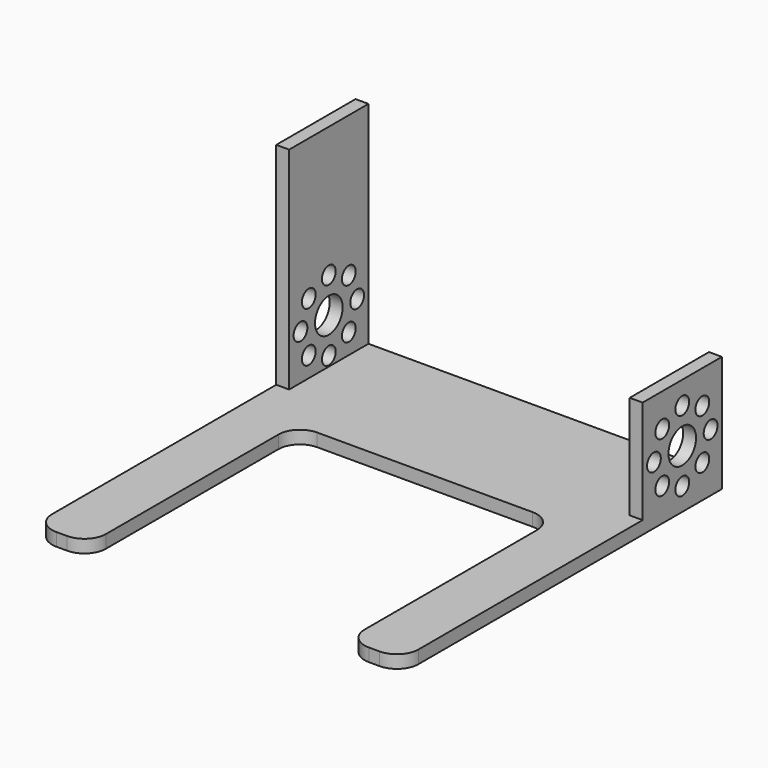
from build123d import *

# Parameters (mm, degrees)
F0_W     = 85
F0_H     = 23
F1_DEPTH = 3
F2_W     = 3
F2_H     = 23
F3_DEPTH = 24
F4_W     = 3
F4_H     = 23
F5_DEPTH = 25
F6_R     = 4
F6_R_2   = 2
F7_DEPTH = 100


with BuildPart() as f1:
    # F0 (on Top) → F1 (new body)
    with BuildSketch(Plane.XY):
        with Locations((42.5, 11.5)):
            Rectangle(F0_W, F0_H)
        with BuildLine():
            Line((85, 0), (0, 0))
            Line((0, 0), (0, -10))
            Line((0, -10), (0, -65))
            ThreePointArc((0, -65), (1.464466, -68.535534), (5, -70))
            Line((5, -70), (7.5, -70))
            ThreePointArc((7.5, -70), (11.035534, -68.535534), (12.5, -65))
            Line((12.5, -65), (12.5, -15))
            ThreePointArc((12.5, -15), (13.964466, -11.464466), (17.5, -10))
            Line((17.5, -10), (67.5, -10))
            ThreePointArc((67.5, -10), (71.035534, -11.464466), (72.5, -15))
            Line((72.5, -15), (72.5, -65))
            ThreePointArc((72.5, -65), (73.964466, -68.535534), (77.5, -70))
            Line((77.5, -70), (80, -70))
            ThreePointArc((80, -70), (83.535534, -68.535534), (85, -65))
            Line((85, -65), (85, -10))
            Line((85, -10), (85, 0))
        make_face()
    extrude(amount=F1_DEPTH)

    # F2 (on face) → F3 (join)
    with BuildSketch(Plane.XY.offset(3)):
        with Locations((1.5, 11.5)):
            Rectangle(F2_W, F2_H)
        with Locations((83.5, 11.5)):
            Rectangle(F2_W, F2_H)
    extrude(amount=F3_DEPTH)

    # F4 (on face) → F5 (join)
    with BuildSketch(Plane.XY.offset(27)):
        with Locations((1.5, 11.5)):
            Rectangle(F4_W, F4_H)
    extrude(amount=F5_DEPTH)

    # F6 (on face) → F7 (cut)
    with BuildSketch(Plane.YZ.offset(85)):
        with Locations((11.5, 13.5)):
            Circle(F6_R)
        with Locations((19.713903, 13.5)):
            Circle(F6_R_2)
        with Locations((17.308106, 19.308106)):
            Circle(F6_R_2)
        with Locations((11.5, 21.713903)):
            Circle(F6_R_2)
        with Locations((5.691894, 19.308106)):
            Circle(F6_R_2)
        with Locations((3.286097, 13.5)):
            Circle(F6_R_2)
        with Locations((5.691894, 7.691894)):
            Circle(F6_R_2)
        with Locations((11.5, 5.286097)):
            Circle(F6_R_2)
        with Locations((17.308106, 7.691894)):
            Circle(F6_R_2)
    extrude(amount=-F7_DEPTH, mode=Mode.SUBTRACT)


solid = f1.part
